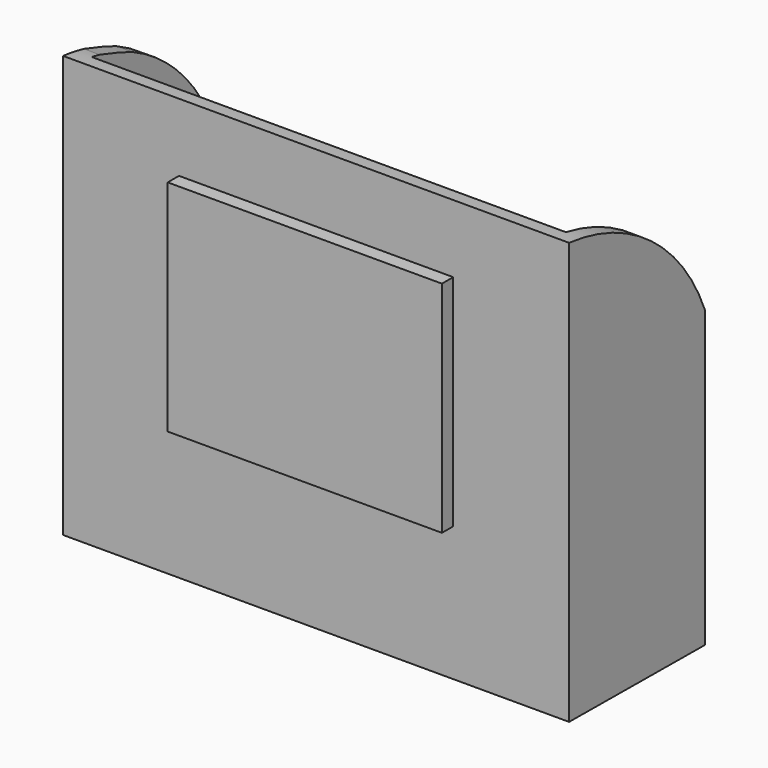
from build123d import *

# Parameters (mm, degrees)
F1_DEPTH  = 40.4962673783
F2_T      = -2.54
F4_DEPTH  = 64.6499544382
F6_DEPTH  = 25.4
F8_DEPTH  = 7.8383367509
F9_W      = 43.894559145
F9_H      = 35.1156592369
F10_DEPTH = 2.2577764466


with BuildPart() as f1:
    # F0 (on Right) → F1 (new body, symmetric)
    with BuildSketch(Plane.YZ):
        with BuildLine():
            Line((-42.4313992262, 28.4269750118), (-42.4313992262, -39.0870273113))
            Line((-42.4313992262, -39.0870273113), (-15.2585804462, -39.2960458994))
            Line((-15.2585804462, -39.2960458994), (-15.2585804462, 7.9428553581))
            ThreePointArc((-15.2585804462, 7.9428553581), (-25.9810477869, 21.9840229631), (-42.4313992262, 28.4269750118))
        make_face()
    extrude(amount=F1_DEPTH, both=True)

    # F2
    f2_openings = [f1.faces().sort_by_distance(p)[0] for p in [
        (0, -25.981048, 21.984023),
    ]]
    offset(amount=F2_T, openings=f2_openings)

    # F3 (on face) → F4 (join)
    with BuildSketch(Plane(origin=(0, -0.2836201163, -36.8711610518), x_dir=(1, 0, 0), z_dir=(0, 0.0076919662, 0.9999704164))):
        Polygon((-16.9365108013, -19.4489490241), (-19.1369354725, -19.4489490241), (-19.0156064928, -39.6089508856), (-16.9365108013, -39.6089508856), align=None)
    extrude(amount=F4_DEPTH)

    # F5 (on face) → F6 (cut)
    with BuildSketch(Plane.YZ.offset(-16.9365108013)):
        with BuildLine():
            add(Edge.make_bspline(
                [(-19.3281353329, 15.7808138406), (-20.3699654407, 17.105653585), (-22.6926373922, 20.0592705848), (-29.2882953868, 24.9500093136), (-35.8627586326, 26.9872723021), (-39.3941139596, 28.0815515202)],
                knots=[0, 0, 0, 0, 0.2735167374, 0.6097823753, 1, 1, 1, 1], degree=3))
            Line((-19.3281353329, 15.7808138406), (-19.2347085037, 27.9264814666))
            Line((-19.2347085037, 27.9264814666), (-39.3941139596, 28.0815515202))
        make_face()
    extrude(amount=-F6_DEPTH, mode=Mode.SUBTRACT)

    # F7 (on face) → F8 (cut)
    with BuildSketch(Plane.YZ.offset(-16.9365108013)):
        with BuildLine():
            add(Edge.make_bspline(
                [(-19.3691832665, 10.444503462), (-20.3236829035, 11.74977581), (-21.7640219838, 12.7860568934), (-32.4262033797, 20.6215228131), (-37.1055782084, 21.5614787411), (-39.4380341599, 22.3718409401)],
                knots=[0, 0, 0, 0, 0.2354146383, 0.6634532783, 1, 1, 1, 1], degree=3))
            Line((-19.3691832665, 10.444503462), (-19.3281353329, 15.7808138406))
            add(Edge.make_bspline(
                [(-19.3281353329, 15.7808138406), (-20.3699654407, 17.105653585), (-22.6926373922, 20.0592705848), (-29.2882953868, 24.9500093136), (-35.8627586326, 26.9872723021), (-39.3941139596, 28.0815515202)],
                knots=[0, 0, 0, 0, 0.2735167374, 0.6097823753, 1, 1, 1, 1], degree=3))
            Line((-39.3941139596, 28.0815515202), (-39.4380341599, 22.3718409401))
        make_face()
    extrude(amount=-F8_DEPTH, mode=Mode.SUBTRACT)


with BuildPart() as f10:
    # F9 (on face) → F10 (new body)
    with BuildSketch(Plane.XZ.offset(42.4313992262)):
        Rectangle(F9_W, F9_H)
    extrude(amount=F10_DEPTH)


solid = Compound([f1.part, f10.part])
